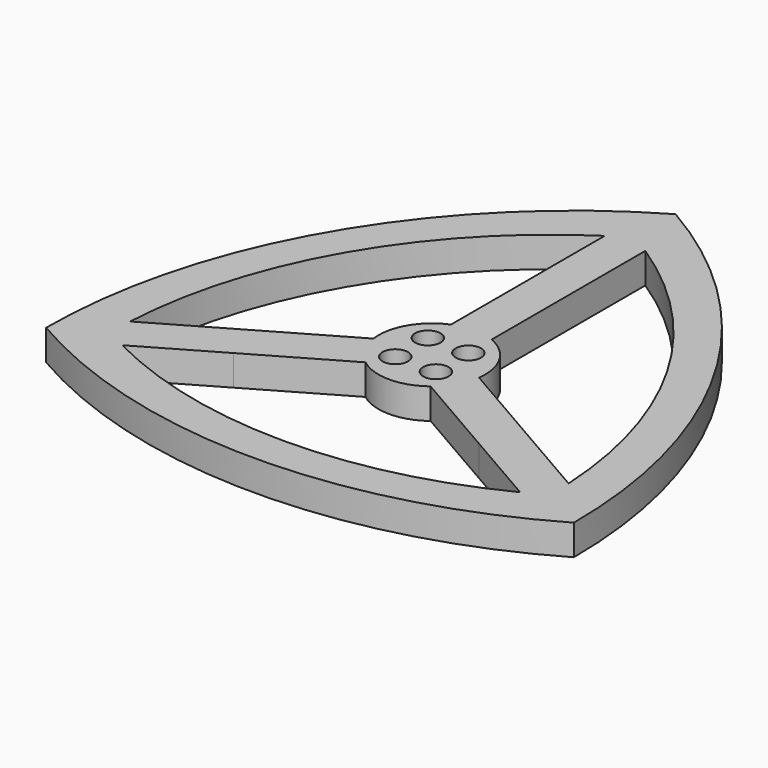
from build123d import *

# Parameters (mm, degrees)
F0_R     = 2.5
F1_DEPTH = 6


with BuildPart() as f1:
    # F0 (on Top) → F1 (new body)
    with BuildSketch(Plane.XY):
        with BuildLine():
            ThreePointArc((60, 120), (21.961524, 81.961524), (8.038476, 30))
            ThreePointArc((8.038476, 30), (60, 16.076952), (111.961524, 30))
            ThreePointArc((111.961524, 30), (98.038476, 81.961524), (60, 120))
        make_face()
        with Locations((56, 56)):
            Circle(F0_R, mode=Mode.SUBTRACT)
        with Locations((56, 64)):
            Circle(F0_R, mode=Mode.SUBTRACT)
        with BuildLine():
            Line((35.802732, 41.410898), (53.592414, 51.681776))
            ThreePointArc((53.592414, 51.681776), (60, 49.5), (66.407586, 51.681776))
            Line((66.407586, 51.681776), (84.197268, 41.410898))
            Line((84.197268, 41.410898), (99.174061, 32.764043))
            ThreePointArc((99.174061, 32.764043), (60, 23.39746), (20.825939, 32.764043))
            Line((20.825939, 32.764043), (35.802732, 41.410898))
        make_face(mode=Mode.SUBTRACT)
        with Locations((64, 56)):
            Circle(F0_R, mode=Mode.SUBTRACT)
        with Locations((64, 64)):
            Circle(F0_R, mode=Mode.SUBTRACT)
        with BuildLine():
            ThreePointArc((16.825939, 39.692247), (28.30127, 78.30127), (56, 107.54371))
            Line((56, 107.54371), (56, 85))
            Line((56, 85), (56, 69.708244))
            ThreePointArc((56, 69.708244), (50.906733, 65.25), (49.592414, 58.60998))
            Line((49.592414, 58.60998), (31.802732, 48.339102))
            Line((31.802732, 48.339102), (16.825939, 39.692247))
        make_face(mode=Mode.SUBTRACT)
        with BuildLine():
            ThreePointArc((64, 107.54371), (91.69873, 78.30127), (103.174061, 39.692247))
            Line((103.174061, 39.692247), (88.197268, 48.339102))
            Line((88.197268, 48.339102), (70.407586, 58.60998))
            ThreePointArc((70.407586, 58.60998), (69.093267, 65.25), (64, 69.708244))
            Line((64, 69.708244), (64, 85))
            Line((64, 85), (64, 107.54371))
        make_face(mode=Mode.SUBTRACT)
    extrude(amount=F1_DEPTH)


solid = f1.part
